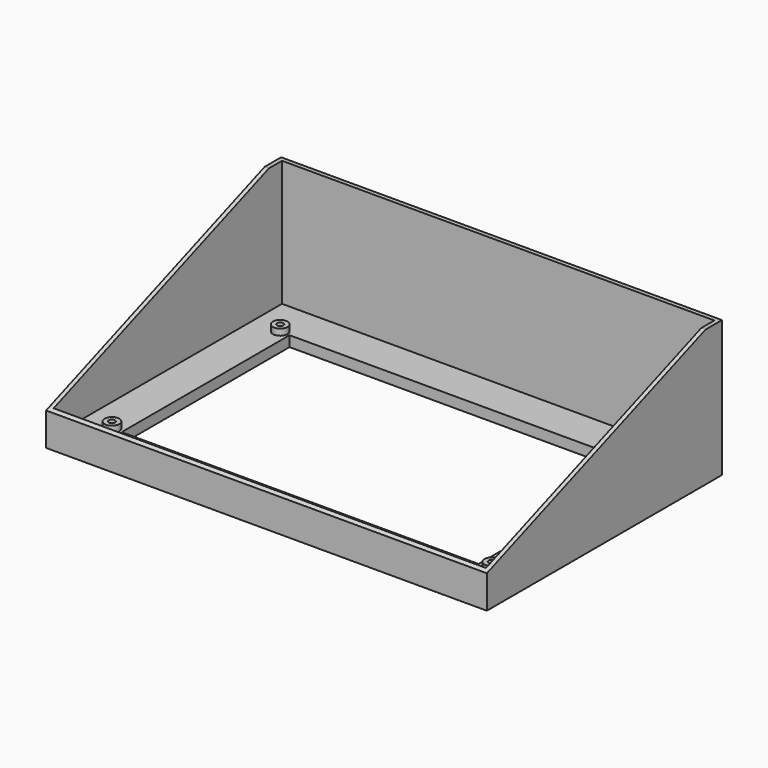
from build123d import *

# Parameters (mm, degrees)
F0_W     = 210
F0_H     = 140
F0_W_2   = 170
F0_H_2   = 100
F1_DEPTH = 5
F2_W     = 210
F2_H     = 140
F2_W_2   = 206
F2_H_2   = 136
F3_DEPTH = 60
F2_R     = 3.5
F4_DEPTH = 3
F5_D     = 3
F5_DEPTH = 15
F5_TIP   = 0.9012909285
F7_DEPTH = 300


with BuildPart() as f1:
    # F0 (on Top) → F1 (new body)
    with BuildSketch(Plane.XY):
        with Locations((4.9210386318, -0.3193840384)):
            Rectangle(F0_W, F0_H)
        with Locations((4.9210386318, -0.3193840384)):
            Rectangle(F0_W_2, F0_H_2, mode=Mode.SUBTRACT)
    extrude(amount=F1_DEPTH)

    # F2 (on face) → F3 (join)
    with BuildSketch(Plane.XY.offset(5)):
        with Locations((4.9210386318, -0.3193840384)):
            Rectangle(F2_W, F2_H)
        with Locations((4.9210386318, -0.3193840384)):
            Rectangle(F2_W_2, F2_H_2, mode=Mode.SUBTRACT)
    extrude(amount=F3_DEPTH)

    # F2 (on face) → F4 (join)
    with BuildSketch(Plane.XY.offset(5)):
        with Locations((-84.690593183, 49.8957410455)):
            Circle(F2_R)
        with Locations((96.2527468801, 49.8957410455)):
            Circle(F2_R)
        with Locations((-84.690593183, -50.3193840384)):
            Circle(F2_R)
        with Locations((96.2527468801, -50.3193840384)):
            Circle(F2_R)
    extrude(amount=F4_DEPTH)

    # F5 (one way)
    with BuildSketch(Plane(origin=(0, 0, 5), x_dir=(1, 0, 0), z_dir=(0, 0, -1))):
        with Locations((-84.690593183, -49.8957410455), (96.2527468801, -49.8957410455), (-84.690593183, 50.3193840384), (96.2527468801, 50.3193840384)):
            Circle(F5_D / 2)
    extrude(amount=-F5_DEPTH, mode=Mode.SUBTRACT)
    with Locations(Plane(origin=(0, 0, 5), x_dir=(1, 0, 0), z_dir=(0, 0, -1))):
        with Locations((-84.690593183, -49.8957410455), (96.2527468801, -49.8957410455), (-84.690593183, 50.3193840384), (96.2527468801, 50.3193840384)):
            with Locations((0, 0, -(F5_DEPTH + F5_TIP / 2))):  # 118° drill point
                Cone(0, F5_D / 2, F5_TIP, mode=Mode.SUBTRACT)

    # F6 (on face) → F7 (cut)
    with BuildSketch(Plane.YZ.offset(109.9210386318)):
        Polygon((-94.7846397758, 6.4518074505), (80.1731944084, 72.6777166128), (-94.7846397758, 76.6626521945), align=None)
    extrude(amount=-F7_DEPTH, mode=Mode.SUBTRACT)


solid = f1.part
